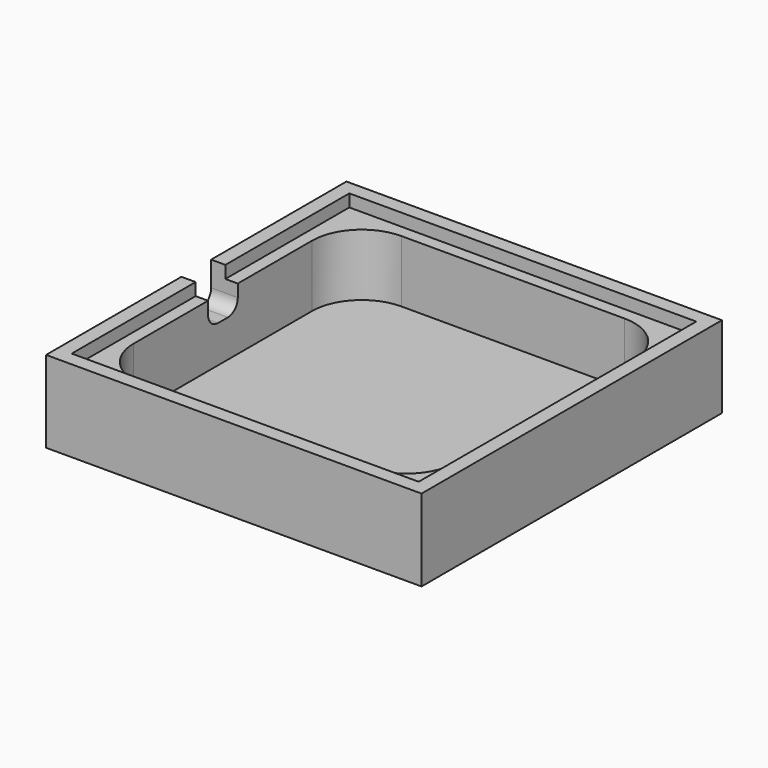
from build123d import *

# Parameters (mm, degrees)
SKETCH_W      = 30.3
SKETCH_H      = 30.3
PAD_DEPTH     = 0.6
SKETCH001_W   = 28
SKETCH001_H   = 28
PAD001_DEPTH  = 5
SKETCH003_W   = 30.3
SKETCH003_H   = 30.3
SKETCH003_W_2 = 28
SKETCH003_H_2 = 28
PAD002_DEPTH  = 6
POCKET_DEPTH  = 2.15


with BuildPart() as part:
    # Sketch → Pad (new body)
    with BuildSketch(Plane.XY):
        Rectangle(SKETCH_W, SKETCH_H)
    extrude(amount=PAD_DEPTH)

    # Sketch001 (on Face6 of Pad) → Pad001 (join)
    with BuildSketch(Plane.XY.offset(0.6)):
        Rectangle(SKETCH001_W, SKETCH001_H)
        with BuildLine():
            Line((-9, 13), (9, 13))
            ThreePointArc((13, 9), (11.828427, 11.828427), (9, 13))
            Line((13, 9), (13, -9))
            ThreePointArc((9, -13), (11.828427, -11.828427), (13, -9))
            Line((9, -13), (-9, -13))
            ThreePointArc((-13, -9), (-11.828427, -11.828427), (-9, -13))
            Line((-13, -9), (-13, 9))
            ThreePointArc((-9, 13), (-11.828427, 11.828427), (-13, 9))
        make_face(mode=Mode.SUBTRACT)
    extrude(amount=PAD001_DEPTH)

    # Sketch003 (on Face5 of Pad001) → Pad002 (join)
    with BuildSketch(Plane.XY.offset(0.6)):
        Rectangle(SKETCH003_W, SKETCH003_H)
        Rectangle(SKETCH003_W_2, SKETCH003_H_2, mode=Mode.SUBTRACT)
    extrude(amount=PAD002_DEPTH)

    # Sketch004 (on Face7 of Pad002) → Pocket (cut)
    with BuildSketch(Plane(origin=(-15.15, 0, 0), x_dir=(0, -1, 0), z_dir=(-1, 0, 0))):
        with BuildLine():
            Line((-1.5, 6.6), (1.5, 6.6))
            Line((1.5, 6.6), (1.5, 4.6))
            ThreePointArc((0.5, 3.6), (1.207107, 3.892893), (1.5, 4.6))
            Line((0.5, 3.6), (-0.5, 3.6))
            ThreePointArc((-1.5, 4.6), (-1.207107, 3.892893), (-0.5, 3.6))
            Line((-1.5, 4.6), (-1.5, 6.6))
        make_face()
    extrude(amount=-POCKET_DEPTH, mode=Mode.SUBTRACT)


solid = part.part
